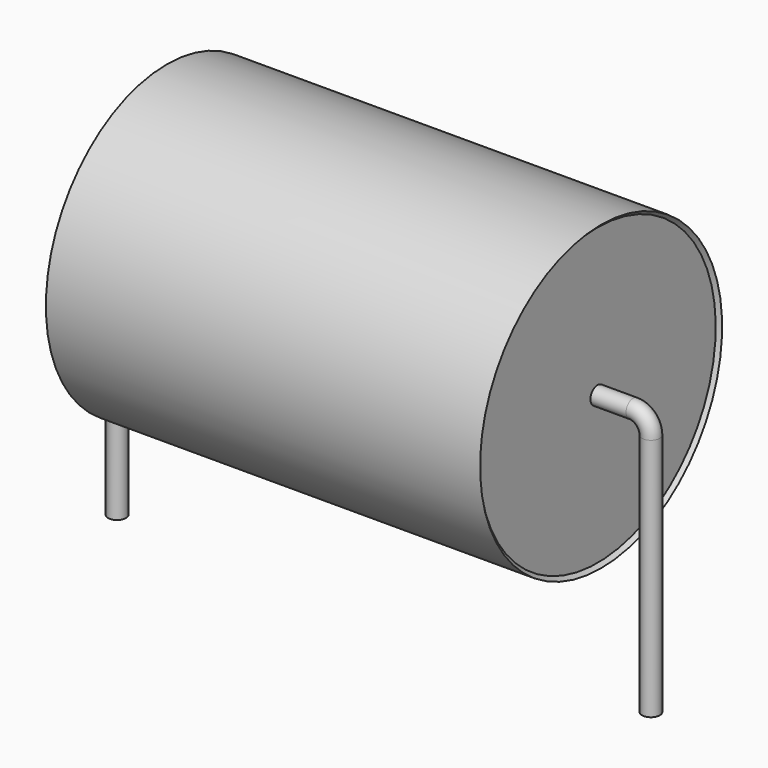
from build123d import *

# Parameters (mm, degrees)
SKETCH_R = 0.25


with BuildPart() as sweep_body:
    # Sweep: sweep along a path in Sketch001
    with BuildLine(Plane.XZ) as sweep_path:
        Line((0, -3), (0, 3.85))
        ThreePointArc((0, 3.85), (0.146443, 4.20355), (0.499991, 4.35))
        Line((0.499991, 4.35), (14.5, 4.35))
        ThreePointArc((14.5, 4.35), (14.853553, 4.203553), (15, 3.85))
        Line((15, 3.85), (15, -3))
    # Sketch → Sweep (sweep)
    with BuildSketch(Plane.XY.offset(-2)):
        Circle(SKETCH_R)
    sweep(path=sweep_path.line)


with BuildPart() as revolution:
    # Sketch002 → Revolution (revolve)
    with BuildSketch(Plane.XZ):
        Polygon((1.4, 8.6), (13.6, 8.6), (13.5, 8.5), (13.5, 4.35), (1.5, 4.35), (1.5, 8.5), align=None)
    revolve(axis=Axis((7.611803, 0, 4.35), (1, 0, 0)))


solid = Compound([sweep_body.part, revolution.part])
